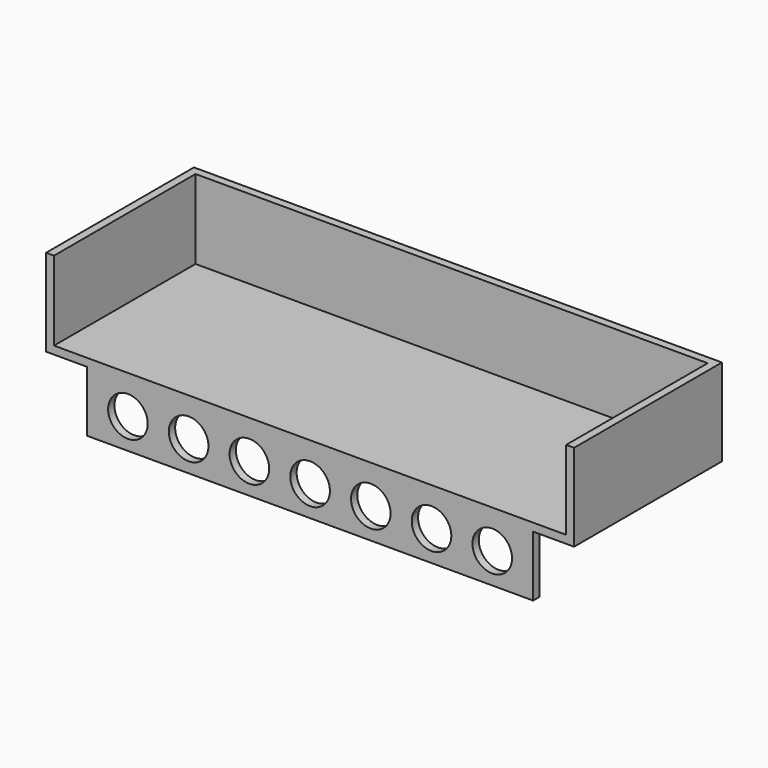
from build123d import *

# Parameters (mm, degrees)
SKETCH_W        = 200
SKETCH_H        = 70
PAD_DEPTH       = 33
SKETCH001_W     = 194
SKETCH001_H     = 67
POCKET_DEPTH    = 30
SKETCH002_W     = 169
SKETCH002_H     = 3
PAD001_DEPTH    = 23
SKETCH004_R     = 7.5
POCKET001_DEPTH = 5


with BuildPart() as part:
    # Sketch → Pad (new body)
    with BuildSketch(Plane.XY):
        Rectangle(SKETCH_W, SKETCH_H)
    extrude(amount=PAD_DEPTH)

    # Sketch001 (on Face6 of Pad) → Pocket (cut)
    with BuildSketch(Plane.XY.offset(33)):
        with Locations((0, -1.5)):
            Rectangle(SKETCH001_W, SKETCH001_H)
    extrude(amount=-POCKET_DEPTH, mode=Mode.SUBTRACT)

    # Sketch002 → Pad001 (join)
    with BuildSketch(Plane.XY):
        with Locations((0, -33.5)):
            Rectangle(SKETCH002_W, SKETCH002_H)
    extrude(amount=-PAD001_DEPTH)

    # Sketch004 (on Face14 of Pad001) → Pocket001 (cut)
    with BuildSketch(Plane.XZ.offset(35)):
        with Locations((0, -11.5)):
            Circle(SKETCH004_R)
        with Locations((-23, -11.5)):
            Circle(SKETCH004_R)
        with Locations((23, -11.5)):
            Circle(SKETCH004_R)
        with Locations((46, -11.5)):
            Circle(SKETCH004_R)
        with Locations((69, -11.5)):
            Circle(SKETCH004_R)
        with Locations((-46, -11.5)):
            Circle(SKETCH004_R)
        with Locations((-69, -11.5)):
            Circle(SKETCH004_R)
    extrude(amount=-POCKET001_DEPTH, mode=Mode.SUBTRACT)


solid = part.part
